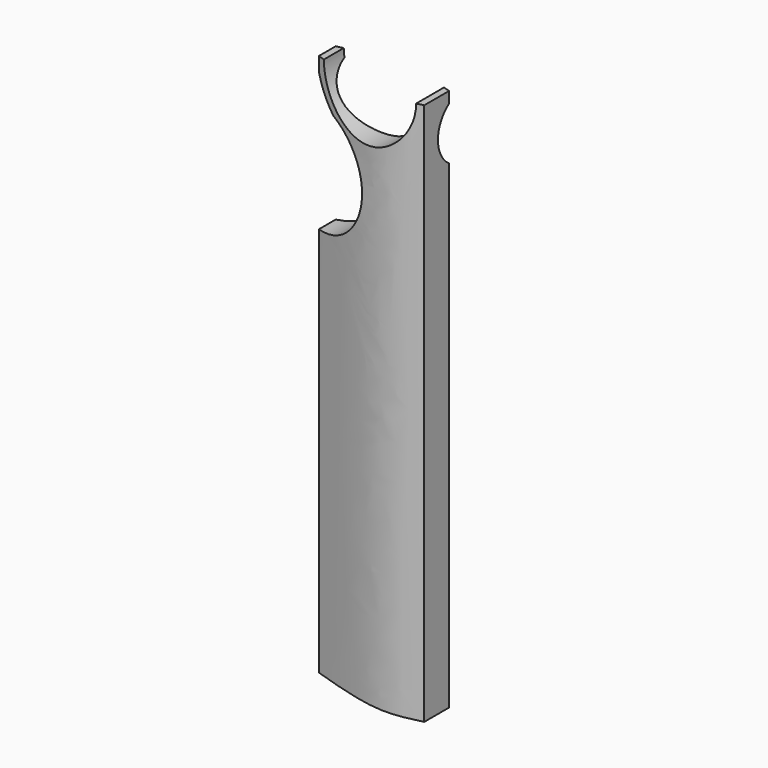
from build123d import *

# Parameters (mm, degrees)
F0_W      = 30
F0_H      = 140
F1_DEPTH  = 30
F2_R      = 13.2532741624
F3_DEPTH  = 54.4
F4_R      = 14.451224753
F5_DEPTH  = 128.1
F7_DEPTH  = 70.9
F9_DEPTH  = 175.5
F11_DEPTH = 153.2
F12_R     = 8.2133766701
F13_DEPTH = 33.1
F14_R     = 13.6361041186
F15_DEPTH = 73.6


with BuildPart() as f1:
    # F0 (on Front) → F1 (new body)
    with BuildSketch(Plane.XZ):
        Rectangle(F0_W, F0_H)
    extrude(amount=F1_DEPTH)

    # F2 (on face) → F3 (cut)
    with BuildSketch(Plane.XZ.offset(30)):
        with Locations((0, 70)):
            Circle(F2_R)
    extrude(amount=-F3_DEPTH, mode=Mode.SUBTRACT)

    # F4 (on face) → F5 (cut)
    with BuildSketch(Plane.XZ.offset(30)):
        with Locations((-15, 45.1164804399)):
            Circle(F4_R)
    extrude(amount=-F5_DEPTH, mode=Mode.SUBTRACT)

    # F6 (on face) → F7 (cut)
    with BuildSketch(Plane.XZ.offset(30)):
        with BuildLine():
            ThreePointArc((-9.9419789308, 58.6536263624), (-13.0147365818, 62.199966598), (-15, 66.4516836405))
            Line((-15, 66.4516836405), (-21.4710962027, 59.249356389))
            Line((-21.4710962027, 59.249356389), (-15, 55.8520294726))
            Line((-15, 55.8520294726), (-9.9419789308, 58.6536263624))
        make_face()
    extrude(amount=-F7_DEPTH, mode=Mode.SUBTRACT)

    # F8 (on face) → F9 (cut)
    with BuildSketch(Plane(origin=(0, 0, -70), x_dir=(1, 0, 0), z_dir=(0, 0, -1))):
        with BuildLine():
            add(Edge.make_bspline(
                [(15, 23.5094930977), (11.8512469004, 24.2984324234), (4.2834443272, 26.1945915921), (-7.8910030615, 22.2687074811), (-15, 19.9762750417)],
                knots=[0, 0, 0, 0, 0.4160723102, 1, 1, 1, 1], degree=3))
            Line((15, 23.5094930977), (15, 30))
            Line((15, 30), (-15, 30))
            Line((-15, 30), (-15, 19.9762750417))
        make_face()
        Polygon((15, 30), (15, 23.5094930977), (28.6734271795, 27.3144952953), (25.2801995763, 39.5081940436), (-18.2096641511, 41.3114763796), (-27.3144952953, 36.9629003108), (-15, 19.9762750417), (-15, 30), align=None)
    extrude(amount=-F9_DEPTH, mode=Mode.SUBTRACT)

    # F10 (on face) → F11 (cut)
    with BuildSketch(Plane(origin=(0, 0, -70), x_dir=(1, 0, 0), z_dir=(0, 0, -1))):
        with BuildLine():
            add(Edge.make_bspline(
                [(-14.9482320994, 14.5405521616), (-9.960949986, 13.377550706), (0.0492499744, 11.0432377754), (10.004603164, 14.0054335818), (15, 15.491804108)],
                knots=[0, 0, 0, 0, 0.4982200289, 1, 1, 1, 1], degree=3))
            Line((-14.9482320994, 14.5405521616), (-15, 14.4570896226))
            Line((-15, 14.4570896226), (-15, 0))
            Line((-15, 0), (15, 0))
            Line((15, 0), (15, 15.491804108))
        make_face()
        Polygon((25.2761021256, 14.4046600908), (15, 15.491804108), (15, 0), (-15, 0), (-15, 14.4570896226), (-21.6069892049, 3.8050042931), (-17.8019851446, -5.2743439193), (23.1941929335, -5.2743439193), align=None)
    extrude(amount=-F11_DEPTH, mode=Mode.SUBTRACT)

    # F12 (on Right) → F13 (cut, symmetric)
    with BuildSketch(Plane.YZ):
        with Locations((-10.8714420348, 60.336496681)):
            Circle(F12_R)
    extrude(amount=F13_DEPTH, both=True, mode=Mode.SUBTRACT)

    # F14 (on Top) → F15 (cut)
    with BuildSketch(Plane.XY):
        with Locations((0, -3.8050042931)):
            Circle(F14_R)
        with Locations((0, -3.8050042931)):
            Circle(F14_R)
    extrude(amount=F15_DEPTH, mode=Mode.SUBTRACT)


solid = f1.part
